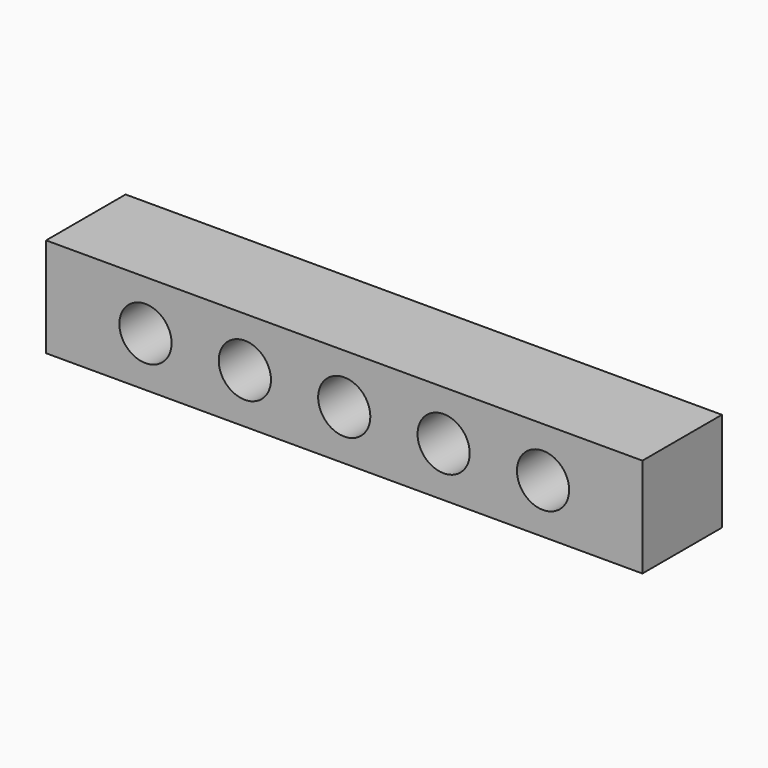
from build123d import *

# Parameters (mm, degrees)
F0_W     = 120
F0_H     = 20
F0_R     = 1.9
F0_R_2   = 5.25
F1_DEPTH = 20
F2_DEPTH = 10
F2_TAPER = 5


with BuildPart() as f1:
    # F0 (on Front) → F1 (new body)
    with BuildSketch(Plane.XZ):
        with Locations((0, 10)):
            Rectangle(F0_W, F0_H)
        with Locations((0, 2)):
            Circle(F0_R, mode=Mode.SUBTRACT)
        with Locations((-40, 10)):
            Circle(F0_R_2, mode=Mode.SUBTRACT)
        with Locations((-20, 10)):
            Circle(F0_R_2, mode=Mode.SUBTRACT)
        with Locations((-8, 10)):
            Circle(F0_R, mode=Mode.SUBTRACT)
        with Locations((0, 10)):
            Circle(F0_R_2, mode=Mode.SUBTRACT)
        with Locations((8, 10)):
            Circle(F0_R, mode=Mode.SUBTRACT)
        with Locations((20, 10)):
            Circle(F0_R_2, mode=Mode.SUBTRACT)
        with Locations((40, 10)):
            Circle(F0_R_2, mode=Mode.SUBTRACT)
        with Locations((0, 18)):
            Circle(F0_R, mode=Mode.SUBTRACT)
        with Locations((8, 10)):
            Circle(F0_R)
        with Locations((0, 18)):
            Circle(F0_R)
        with Locations((-8, 10)):
            Circle(F0_R)
        with Locations((0, 2)):
            Circle(F0_R)
    extrude(amount=F1_DEPTH)

    # F0 (on Front) → F2 (cut)
    with BuildSketch(Plane.XZ):
        with Locations((8, 10)):
            Circle(F0_R)
        with Locations((0, 18)):
            Circle(F0_R)
        with Locations((-8, 10)):
            Circle(F0_R)
        with Locations((0, 2)):
            Circle(F0_R)
    extrude(amount=F2_DEPTH, taper=F2_TAPER, mode=Mode.SUBTRACT)


solid = f1.part
